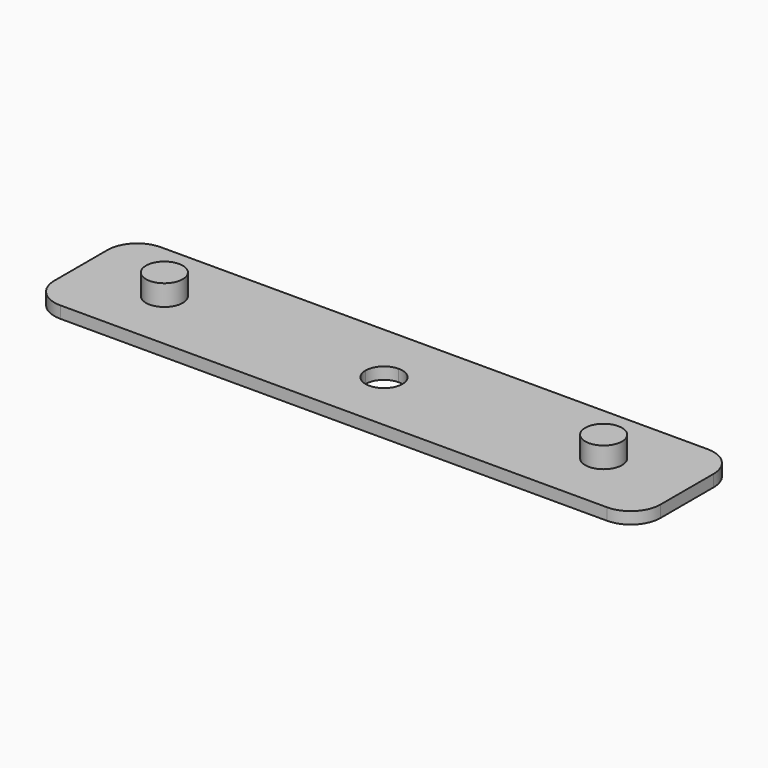
from build123d import *

# Parameters (mm, degrees)
F1_DEPTH = 7.0104
F2_DEPTH = 2.54


with BuildPart() as f1:
    # F0 (on Top) → F1 (new body)
    with BuildSketch(Plane.XY):
        with BuildLine():
            ThreePointArc((50.927, 0), (46.99, 3.937), (43.053, 0))
            ThreePointArc((43.053, 0), (46.99, -3.937), (50.927, 0))
        make_face()
    extrude(amount=F1_DEPTH)


with BuildPart() as f1b:
    # F0 (on Top) → F1, piece 2 (new body)
    with BuildSketch(Plane.XY):
        with BuildLine():
            ThreePointArc((-50.927, 0), (-46.99, -3.937), (-43.053, 0))
            ThreePointArc((-43.053, 0), (-46.99, 3.937), (-50.927, 0))
        make_face()
    extrude(amount=F1_DEPTH)


with BuildPart() as f2:
    # F0 (on Top) → F2 (new body)
    with BuildSketch(Plane.XY):
        with BuildLine():
            Line((43.053, 0), (3.937, 0))
            ThreePointArc((3.937, 0), (2.7838793975, -2.7838793975), (0, -3.937))
            Line((0, -3.937), (0, -13.462))
            Line((0, -13.462), (58.4962, -13.462))
            ThreePointArc((58.4962, -13.462), (62.9863280605, -11.6021280605), (64.8462, -7.112))
            Line((64.8462, -7.112), (64.8462, 0))
            Line((64.8462, 0), (50.927, 0))
            ThreePointArc((50.927, 0), (46.99, -3.937), (43.053, 0))
        make_face()
        with BuildLine():
            ThreePointArc((0, 3.937), (2.7838793975, 2.7838793975), (3.937, 0))
            Line((3.937, 0), (43.053, 0))
            ThreePointArc((43.053, 0), (46.99, 3.937), (50.927, 0))
            Line((50.927, 0), (64.8462, 0))
            Line((64.8462, 0), (64.8462, 7.112))
            ThreePointArc((64.8462, 7.112), (62.9863280605, 11.6021280605), (58.4962, 13.462))
            Line((58.4962, 13.462), (0, 13.462))
            Line((0, 13.462), (0, 3.937))
        make_face()
        with BuildLine():
            ThreePointArc((-3.937, 0), (-2.7838793975, 2.7838793975), (0, 3.937))
            Line((0, 3.937), (0, 13.462))
            Line((0, 13.462), (-58.4962, 13.462))
            ThreePointArc((-58.4962, 13.462), (-62.9863280605, 11.6021280605), (-64.8462, 7.112))
            Line((-64.8462, 7.112), (-64.8462, 0))
            Line((-64.8462, 0), (-50.927, 0))
            ThreePointArc((-50.927, 0), (-46.99, 3.937), (-43.053, 0))
            Line((-43.053, 0), (-3.937, 0))
        make_face()
        with BuildLine():
            Line((0, -13.462), (0, -3.937))
            ThreePointArc((0, -3.937), (-2.7838793975, -2.7838793975), (-3.937, 0))
            Line((-3.937, 0), (-43.053, 0))
            ThreePointArc((-43.053, 0), (-46.99, -3.937), (-50.927, 0))
            Line((-50.927, 0), (-64.8462, 0))
            Line((-64.8462, 0), (-64.8462, -7.112))
            ThreePointArc((-64.8462, -7.112), (-62.9863280605, -11.6021280605), (-58.4962, -13.462))
            Line((-58.4962, -13.462), (0, -13.462))
        make_face()
    extrude(amount=F2_DEPTH)


solid = Compound([f1.part, f1b.part, f2.part])
